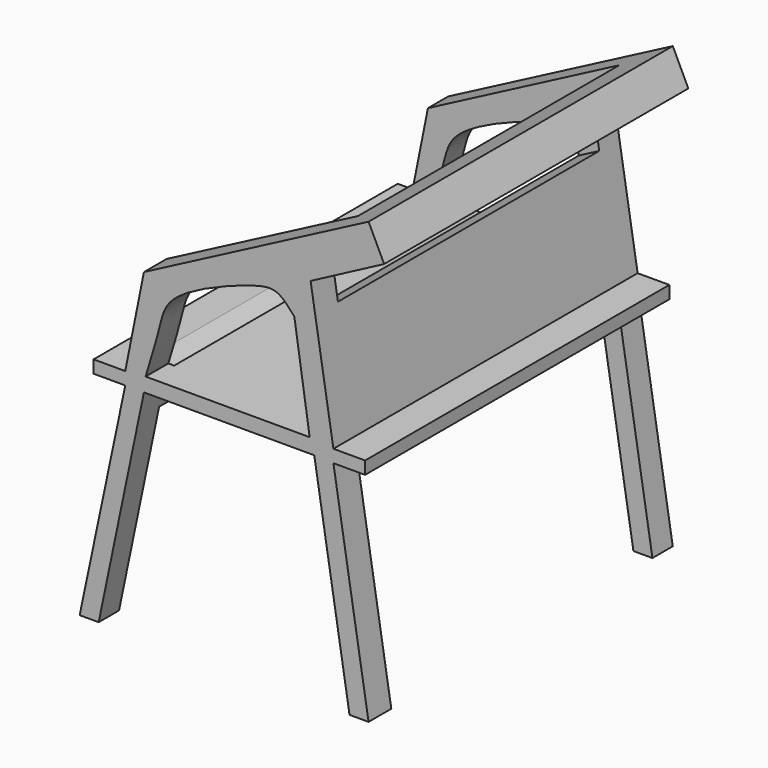
from build123d import *

# Parameters (mm, degrees)
F2_DEPTH  = 60
F3_DEPTH  = 60
F4_W      = 34.0656559074
F4_H      = 51.5325679444
F5_DEPTH  = 10
F6_W      = 51.5325679444
F6_H      = 15
F7_DEPTH  = 4
F8_W      = 51.9751724787
F8_H      = 31.6211068177
F9_DEPTH  = 15
F10_W     = 51.5005090274
F10_H     = 31.6510945126
F11_DEPTH = 6.8


with BuildPart() as f2:
    # F0 (on Front) → F2 (new body)
    with BuildSketch(Plane.XZ):
        Polygon((-17.8921578123, 20.3632246609), (-20.3399246612, 25.4550932741), (-55.7910754849, 6.9290061191), (-58.7328180983, -7.779703899), (-63.7328180983, -7.779703899), (-63.7328180983, -9.779703899), (-58.7328180983, -9.779703899), (-65.9274235368, -44.0322607756), (-62.9274235368, -44.0322607756), (-55.7910754849, -9.779703899), (-28.9112906903, -9.779703899), (-23.3467742801, -44.0322607756), (-20.3467742801, -44.0322607756), (-25.8926429036, -9.8944909401), (-20.8926429036, -9.8944909401), (-20.8926429036, -7.8944909401), (-25.8926429036, -7.8944909401), (-29.4905570809, 14.25258365), (-20.6433312194, 18.913763174), align=None)
        Polygon((-17.8921578123, 20.3632246609), (-20.3399246612, 25.4550932741), (-55.7910754849, 6.9290061191), (-58.7328180983, -7.779703899), (-63.7328180983, -7.779703899), (-63.7328180983, -9.779703899), (-58.7328180983, -9.779703899), (-65.9274235368, -44.0322607756), (-62.9274235368, -44.0322607756), (-55.7910754849, -9.779703899), (-28.9112906903, -9.779703899), (-23.3467742801, -44.0322607756), (-20.3467742801, -44.0322607756), (-25.8926429036, -9.8944909401), (-20.8926429036, -9.8944909401), (-20.8926429036, -7.8944909401), (-25.8926429036, -7.8944909401), (-29.4905570809, 14.25258365), (-20.6433312194, 18.913763174), align=None)
    extrude(amount=F2_DEPTH)

    # F1 (on Front) → F3 (cut)
    with BuildSketch(Plane.XZ):
        with BuildLine():
            add(Edge.make_bspline(
                [(-32.0564545691, 8.4677422419), (-32.9182067785, 9.4601825496), (-34.6748450566, 11.4832219038), (-38.7271868794, 10.9055197371), (-52.1695896145, 5.7227527212), (-53.2214258813, 0.0155056606), (-54.7111549811, -4.8464931653), (-55.5241964757, -7.500000298)],
                knots=[0, 0, 0, 0, 0.1495745389, 0.3049001298, 0.5961488941, 0.7795923388, 1, 1, 1, 1], degree=3))
            Line((-55.5241964757, -7.500000298), (-29.6370983124, -7.500000298))
            Line((-29.6370983124, -7.500000298), (-32.0564545691, 8.4677422419))
        make_face()
    extrude(amount=F3_DEPTH, mode=Mode.SUBTRACT)

    # F4 (on face) → F5 (cut)
    with BuildSketch(Plane(origin=(-14.8119721989, 0, 28.3438945324), x_dir=(0.8862787706, 0, 0.4631521789), z_dir=(-0.4631521789, 0, 0.8862787706))):
        with Locations((-29.2044335556, -29.7510505188)):
            Rectangle(F4_W, F4_H)
    extrude(amount=-F5_DEPTH, mode=Mode.SUBTRACT)

    # F6 (on face) → F7 (cut)
    with BuildSketch(Plane(origin=(-54.9777654657, 0, 10.9955553723), x_dir=(0, -1, 0), z_dir=(-0.9805806679, 0, 0.1961161742))):
        with Locations((29.7510505188, -11.647082832)):
            Rectangle(F6_W, F6_H)
    extrude(amount=-F7_DEPTH, mode=Mode.SUBTRACT)

    # F8 (on face) → F9 (cut)
    with BuildSketch(Plane(origin=(-54.2836781091, 0, 11.4020581632), x_dir=(0, -1, 0), z_dir=(-0.9786444822, 0, 0.2055601554))):
        with Locations((30.0000028219, -40.8334270638)):
            Rectangle(F8_W, F8_H)
    extrude(amount=-F9_DEPTH, mode=Mode.SUBTRACT)

    # F10 (on face) → F11 (cut)
    with BuildSketch(Plane(origin=(-26.7929436535, 0, -4.3526611802), x_dir=(0, 1, 0), z_dir=(0.987059687, 0, 0.1603532795))):
        with Locations((-29.7626692336, -24.3742503009)):
            Rectangle(F10_W, F10_H)
    extrude(amount=-F11_DEPTH, mode=Mode.SUBTRACT)


solid = f2.part
